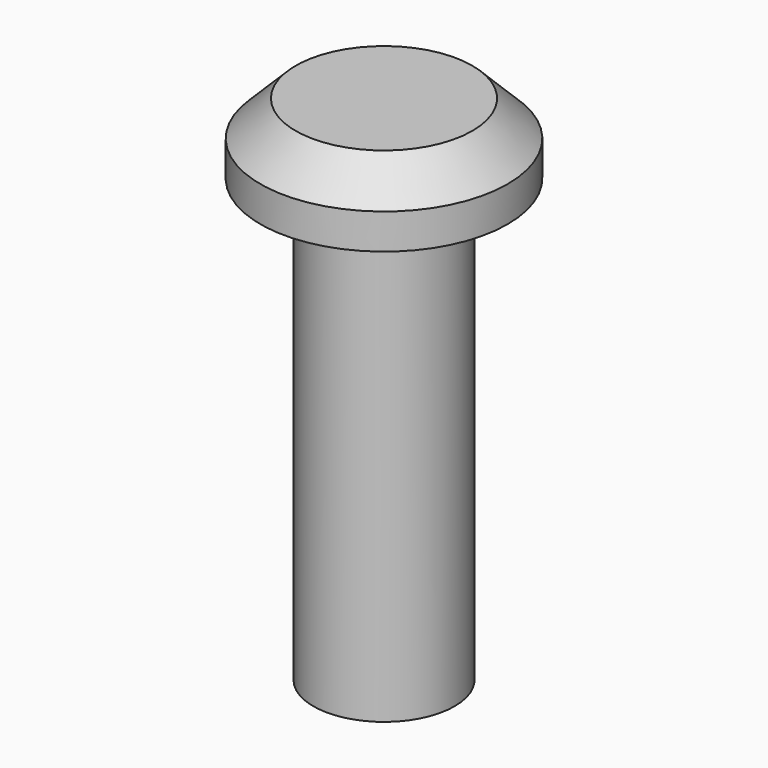
from build123d import *

# Parameters (mm, degrees)
F2_SIZE = 2


with BuildPart() as f1:
    # F0 (on Front) → F1 (revolve)
    with BuildSketch(Plane.XZ):
        Polygon((0, 29), (0, 0), (4, 0), (4, 25), (7, 25), (7, 29), align=None)
    revolve(axis=Axis((0, 0, 17.5), (0, 0, 1)))

    # F2
    f2_edges = [f1.edges().sort_by_distance(p)[0] for p in [
        (-7, 0, 29),
    ]]
    chamfer(f2_edges, length=F2_SIZE)


solid = f1.part
